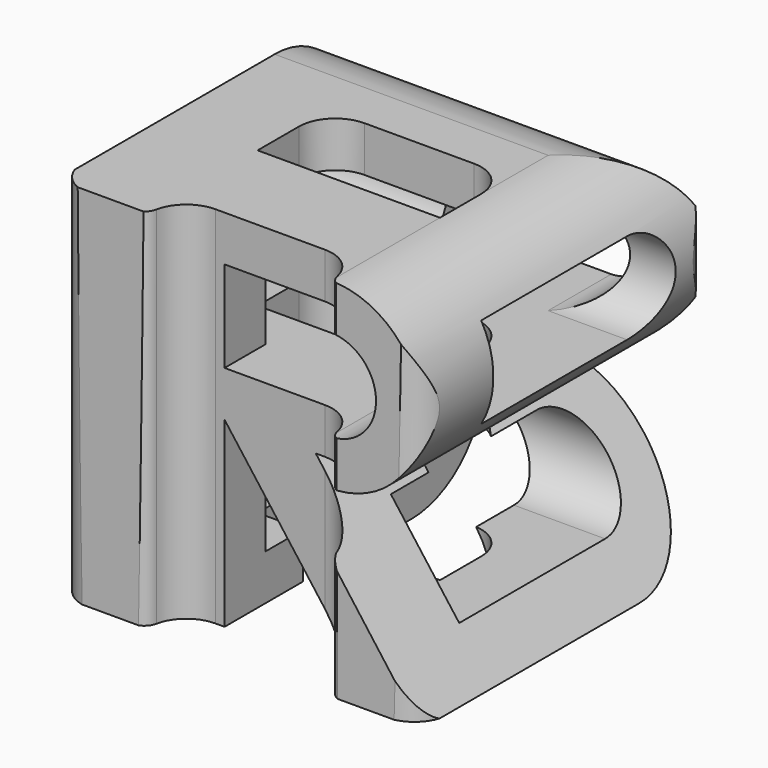
from build123d import *

# Parameters (mm, degrees)
F2_DEPTH = 25
F3_DEPTH = 25
F5_DEPTH = 50


with BuildPart() as f2:
    # F0 (on Front) → F2 (new body, symmetric)
    with BuildSketch(Plane.XZ):
        with BuildLine():
            Line((-25, 25), (-25, -25))
            Line((-25, -25), (-6.25, -25))
            Line((-6.25, -25), (-6.25, 0))
            Line((-6.25, 0), (12.5, -25))
            Line((12.5, -25), (25, -25))
            Line((25, -25), (6.25, 0))
            Line((6.25, 0), (12.5, 0))
            ThreePointArc((12.5, 0), (25, 12.5), (12.5, 25))
            Line((12.5, 25), (-25, 25))
        make_face()
        with BuildLine():
            Line((12.5, 6.25), (-6.25, 6.25))
            Line((-6.25, 6.25), (-6.25, 18.75))
            Line((-6.25, 18.75), (12.5, 18.75))
            ThreePointArc((12.5, 18.75), (18.75, 12.5), (12.5, 6.25))
        make_face(mode=Mode.SUBTRACT)
    extrude(amount=F2_DEPTH, both=True)

    # F1 (on Right) → F3 (intersect, symmetric)
    with BuildSketch(Plane.YZ):
        with BuildLine():
            Line((-25, -25), (12.5, -25))
            ThreePointArc((12.5, -25), (25, -12.5), (12.5, 0))
            ThreePointArc((12.5, 0), (25, 12.5), (12.5, 25))
            Line((12.5, 25), (-24.736971, 25.042934))
            Line((-24.736971, 25.042934), (-25, -25))
        make_face()
        with BuildLine():
            Line((-12.5, -6.25), (12.5, -6.25))
            ThreePointArc((12.5, -6.25), (18.75, -12.5), (12.5, -18.75))
            Line((12.5, -18.75), (-12.5, -18.75))
            Line((-12.5, -18.75), (-12.5, -6.25))
        make_face(mode=Mode.SUBTRACT)
        with BuildLine():
            Line((-12.5, 18.75), (12.5, 18.75))
            ThreePointArc((12.5, 18.75), (18.75, 12.5), (12.5, 6.25))
            Line((12.5, 6.25), (-12.5, 6.25))
            Line((-12.5, 6.25), (-12.5, 18.75))
        make_face(mode=Mode.SUBTRACT)
    extrude(amount=F3_DEPTH, both=True, mode=Mode.INTERSECT)

    # F4 (on face) → F5 (intersect)
    with BuildSketch(Plane.XY.offset(25)):
        with BuildLine():
            ThreePointArc((25.267377, 20.127007), (23.802911, 23.662541), (20.267377, 25.127007))
            Line((20.267377, 25.127007), (-20.267377, 25.127007))
            ThreePointArc((-20.267377, 25.127007), (-23.802911, 23.662541), (-25.267377, 20.127007))
            Line((-25.267377, 20.127007), (-25.267377, -20.127007))
            ThreePointArc((-25.267377, -20.127007), (-23.802911, -23.662541), (-20.267377, -25.127007))
            Line((-20.267377, -25.127007), (-14.361611, -25.127007))
            ThreePointArc((-14.361611, -25.127007), (-13.09501, -24.674819), (-12.401151, -23.522729))
            ThreePointArc((-12.401151, -23.522729), (-10.666503, -20.642503), (-7.5, -19.512033))
            Line((-7.5, -19.512033), (7.5, -19.512033))
            ThreePointArc((7.5, -19.512033), (10.666503, -20.642503), (12.401151, -23.522729))
            ThreePointArc((12.401151, -23.522729), (13.09501, -24.674819), (14.361611, -25.127007))
            Line((14.361611, -25.127007), (20.267377, -25.127007))
            ThreePointArc((20.267377, -25.127007), (23.802911, -23.662541), (25.267377, -20.127007))
            Line((25.267377, -20.127007), (25.267377, 20.127007))
        make_face()
        with BuildLine():
            Line((-7.5, 6.036096), (7.5, 6.036096))
            ThreePointArc((7.5, 6.036096), (11.035534, 4.57163), (12.5, 1.036096))
            Line((12.5, 1.036096), (12.5, -6.036096))
            Line((12.5, -6.036096), (-12.5, -6.036096))
            Line((-12.5, -6.036096), (-12.5, 1.036096))
            ThreePointArc((-12.5, 1.036096), (-11.035534, 4.57163), (-7.5, 6.036096))
        make_face(mode=Mode.SUBTRACT)
    extrude(amount=-F5_DEPTH, mode=Mode.INTERSECT)


solid = f2.part
